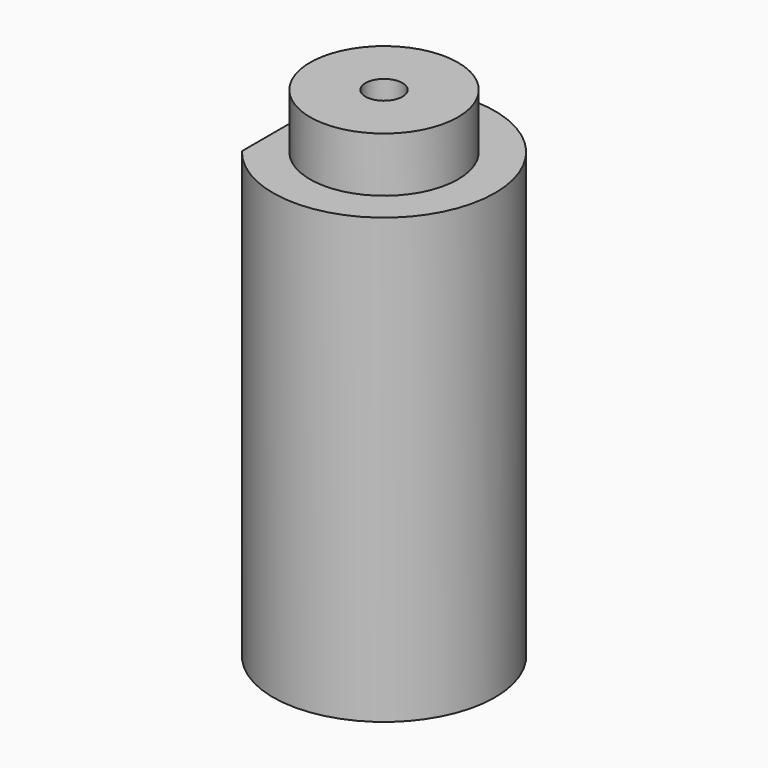
from build123d import *

# Parameters (mm, degrees)
F0_R     = 19.05
F1_DEPTH = 76.2
F2_R     = 12.7
F3_DEPTH = 9.398
F5_DEPTH = 19.304
F7_D     = 6.35
F7_DEPTH = 12.7
F7_TIP   = 1.9077324654


with BuildPart() as f1:
    # F0 (on Top) → F1 (new body)
    with BuildSketch(Plane.XY):
        Circle(F0_R)
    extrude(amount=F1_DEPTH)

    # F2 (on face) → F3 (join)
    with BuildSketch(Plane.XY.offset(76.2)):
        Circle(F2_R)
    extrude(amount=F3_DEPTH)

    # F4 (on face) → F5 (cut)
    with BuildSketch(Plane.XY.offset(85.598)):
        with BuildLine():
            Line((-15.0368, -12.6474779099), (-15.0368, 12.6474779099))
            ThreePointArc((-15.0368, 12.6474779099), (-19.6485127102, 0), (-15.0368, -12.6474779099))
        make_face()
    extrude(amount=-F5_DEPTH, mode=Mode.SUBTRACT)

    # F7
    with Locations(Plane.XY.offset(85.598)):
        with Locations((0, 0)):
            Hole(F7_D / 2, depth=F7_DEPTH)
            with Locations((0, 0, -(F7_DEPTH + F7_TIP / 2))):  # 118° drill point
                Cone(0, F7_D / 2, F7_TIP, mode=Mode.SUBTRACT)


solid = f1.part
